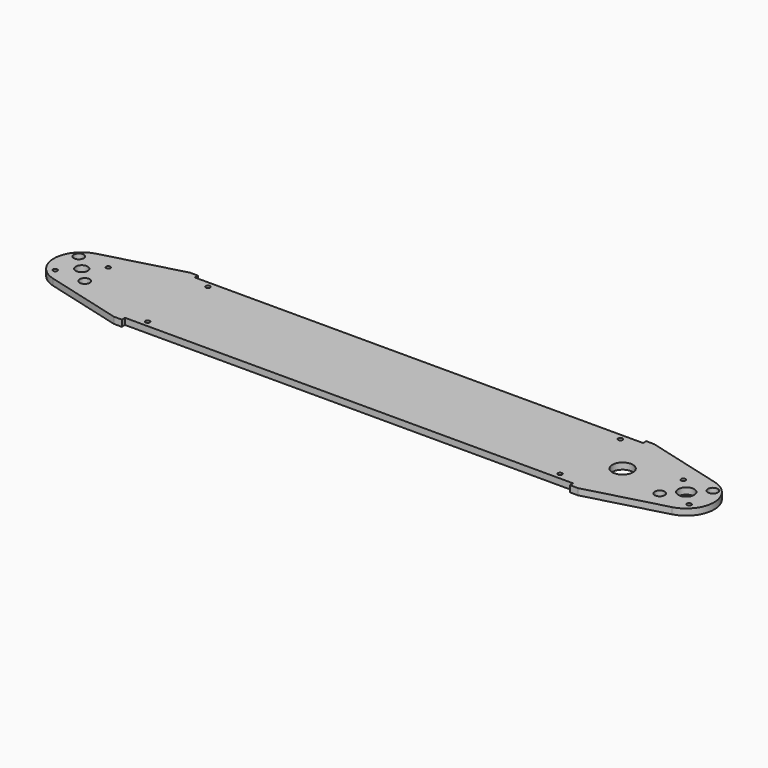
from build123d import *

# Parameters (mm, degrees)
F0_R     = 1.7272
F0_R_2   = 3.96875
F0_R_3   = 4.7625
F0_R_4   = 8.221183
F0_R_5   = 6.35
F1_DEPTH = 5.08


with BuildPart() as f1:
    # F0 (on Top) → F1 (new body)
    with BuildSketch(Plane.XY):
        with BuildLine():
            Line((-426.540354, 38.03015), (-488.352253, 21.467701))
            ThreePointArc((-488.352253, 21.467701), (-504.825, 0), (-488.352253, -21.467701))
            Line((-488.352253, -21.467701), (-426.540354, -38.03015))
            Line((-426.540354, -38.03015), (-420.190354, -38.03015))
            Line((-420.190354, -38.03015), (-420.190354, -34.85515))
            Line((-420.190354, -34.85515), (-62.409646, -34.85515))
            Line((-62.409646, -34.85515), (-62.409646, -38.03015))
            Line((-62.409646, -38.03015), (-56.059646, -38.03015))
            Line((-56.059646, -38.03015), (5.752253, -21.467701))
            ThreePointArc((5.752253, -21.467701), (22.225, 0), (5.752253, 21.467701))
            Line((5.752253, 21.467701), (-56.059646, 38.03015))
            Line((-56.059646, 38.03015), (-62.409646, 38.03015))
            Line((-62.409646, 38.03015), (-62.409646, 34.85515))
            Line((-62.409646, 34.85515), (-420.190354, 34.85515))
            Line((-420.190354, 34.85515), (-420.190354, 38.03015))
            Line((-420.190354, 38.03015), (-426.540354, 38.03015))
        make_face()
        with Locations((-405.902854, -30.09265)):
            Circle(F0_R, mode=Mode.SUBTRACT)
        with Locations((-494.386586, -11.786586)):
            Circle(F0_R, mode=Mode.SUBTRACT)
        with Locations((-470.813414, -11.786586)):
            Circle(F0_R_2, mode=Mode.SUBTRACT)
        with Locations((-76.697146, -30.09265)):
            Circle(F0_R, mode=Mode.SUBTRACT)
        with Locations((-11.786586, -11.786586)):
            Circle(F0_R_2, mode=Mode.SUBTRACT)
        with Locations((11.786586, -11.786586)):
            Circle(F0_R, mode=Mode.SUBTRACT)
        with Locations((-482.6, 0)):
            Circle(F0_R_3, mode=Mode.SUBTRACT)
        with Locations((-494.386586, 11.786586)):
            Circle(F0_R_2, mode=Mode.SUBTRACT)
        with Locations((-470.813414, 11.786586)):
            Circle(F0_R, mode=Mode.SUBTRACT)
        with Locations((-405.902854, 30.09265)):
            Circle(F0_R, mode=Mode.SUBTRACT)
        with Locations((-50.8, 0)):
            Circle(F0_R_4, mode=Mode.SUBTRACT)
        Circle(F0_R_5, mode=Mode.SUBTRACT)
        with Locations((-11.786586, 11.786586)):
            Circle(F0_R, mode=Mode.SUBTRACT)
        with Locations((11.786586, 11.786586)):
            Circle(F0_R_2, mode=Mode.SUBTRACT)
        with Locations((-76.697146, 30.09265)):
            Circle(F0_R, mode=Mode.SUBTRACT)
    extrude(amount=F1_DEPTH)


solid = f1.part
